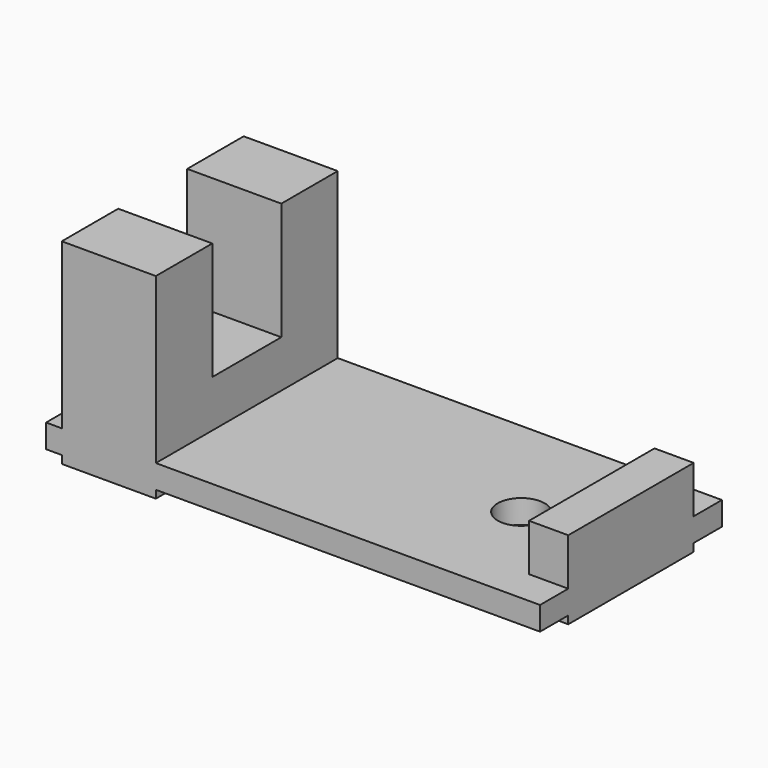
from build123d import *

# Parameters (mm, degrees)
F0_W     = 6
F0_H     = 4.5
F0_H_2   = 5.5
F0_R     = 1.5
F0_W_2   = 2.5
F0_H_3   = 10
F1_DEPTH = 1.5
F2_DEPTH = 3
F3_DEPTH = 10.5
F4_DEPTH = 2


with BuildPart() as f1:
    # F0 (on Top) → F1 (new body)
    with BuildSketch(Plane.XY):
        Polygon((0, 14.5), (0, 0), (1, 0), (1, 4.5), (1, 10), (1, 14.5), align=None)
        with Locations((4, 12.25)):
            Rectangle(F0_W, F0_H)
        with Locations((4, 7.25)):
            Rectangle(F0_W, F0_H_2)
        with Locations((4, 2.25)):
            Rectangle(F0_W, F0_H)
        Polygon((7, 4.5), (7, 0), (31.5, 0), (31.5, 2.25), (29, 2.25), (29, 12.25), (31.5, 12.25), (31.5, 14.5), (7, 14.5), (7, 10), align=None)
        with Locations((24.5, 7.25)):
            Circle(F0_R, mode=Mode.SUBTRACT)
        with Locations((30.25, 7.25)):
            Rectangle(F0_W_2, F0_H_3)
    extrude(amount=-F1_DEPTH)

    # F0 (on Top) → F2 (join)
    with BuildSketch(Plane.XY):
        with Locations((30.25, 7.25)):
            Rectangle(F0_W_2, F0_H_3)
        with Locations((4, 12.25)):
            Rectangle(F0_W, F0_H)
        with Locations((4, 7.25)):
            Rectangle(F0_W, F0_H_2)
        with Locations((4, 2.25)):
            Rectangle(F0_W, F0_H)
    extrude(amount=F2_DEPTH)

    # F0 (on Top) → F3 (join)
    with BuildSketch(Plane.XY):
        with Locations((4, 12.25)):
            Rectangle(F0_W, F0_H)
        with Locations((4, 2.25)):
            Rectangle(F0_W, F0_H)
    extrude(amount=F3_DEPTH)

    # F0 (on Top) → F4 (join)
    with BuildSketch(Plane.XY):
        with Locations((4, 12.25)):
            Rectangle(F0_W, F0_H)
        with Locations((4, 7.25)):
            Rectangle(F0_W, F0_H_2)
        with Locations((4, 2.25)):
            Rectangle(F0_W, F0_H)
        with Locations((30.25, 7.25)):
            Rectangle(F0_W_2, F0_H_3)
    extrude(amount=-F4_DEPTH)


solid = f1.part
